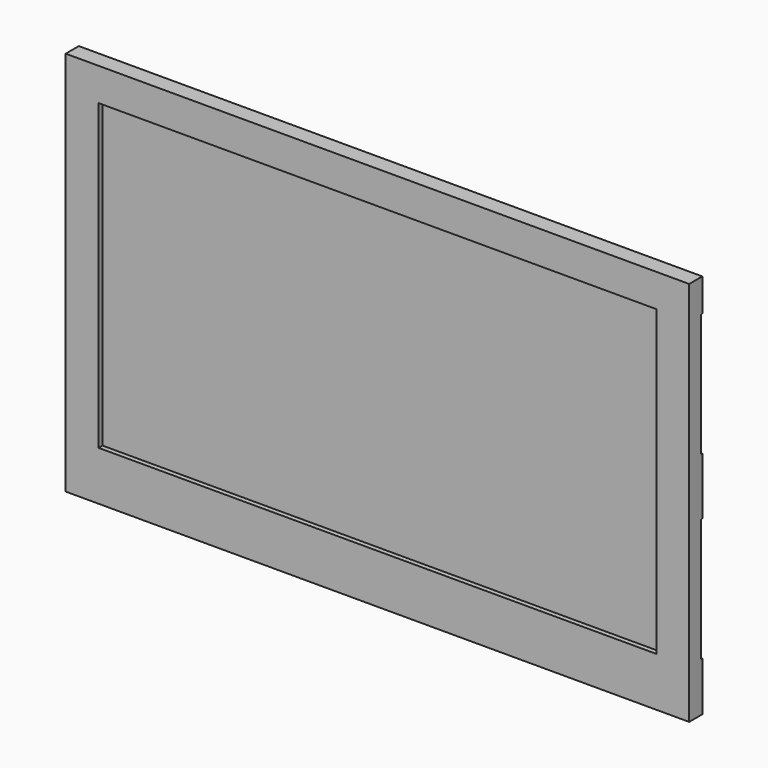
from build123d import *

# Parameters (mm, degrees)
F0_W     = 380
F0_H     = 235
F1_DEPTH = 10
F2_W     = 340
F2_H     = 185
F3_DEPTH = 3
F4_W     = 35
F4_H     = 75
F5_DEPTH = 1


with BuildPart() as f1:
    # F0 (on Front) → F1 (new body)
    with BuildSketch(Plane.XZ):
        Rectangle(F0_W, F0_H)
    extrude(amount=F1_DEPTH)

    # F2 (on face) → F3 (cut)
    with BuildSketch(Plane.XZ.offset(10)):
        with Locations((0, 5)):
            Rectangle(F2_W, F2_H)
    extrude(amount=-F3_DEPTH, mode=Mode.SUBTRACT)

    # F4 (on face) → F5 (cut)
    with BuildSketch(Plane(origin=(0, 0, 0), x_dir=(-1, 0, 0), z_dir=(0, 1, 0))):
        with Locations((-172.5, 60)):
            Rectangle(F4_W, F4_H)
        with Locations((-172.5, -50)):
            Rectangle(F4_W, F4_H)
        with Locations((172.5, -50)):
            Rectangle(F4_W, F4_H)
        with Locations((172.5, 60)):
            Rectangle(F4_W, F4_H)
    extrude(amount=-F5_DEPTH, mode=Mode.SUBTRACT)


solid = f1.part
